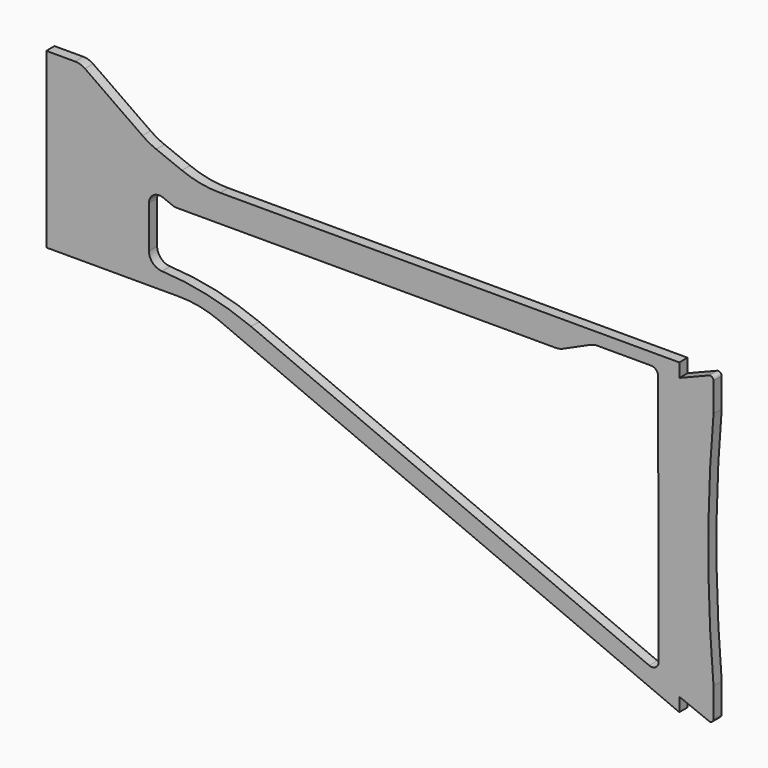
from build123d import *

# Parameters (mm, degrees)
F1_DEPTH = 3


with BuildPart() as f1:
    # F0 (on Front) → F1 (new body)
    with BuildSketch(Plane.XZ):
        with BuildLine():
            Line((8.423506, 0), (0, 0))
            Line((0, 0), (0, -50.61))
            Line((0, -50.61), (38.89988, -50.61))
            ThreePointArc((38.89988, -50.61), (44.877672, -51.211599), (50.615716, -52.992267))
            Line((50.615716, -52.992267), (185, -110))
            Line((185, -110), (185, -106))
            Line((185, -106), (193.628609, -109.451444))
            ThreePointArc((193.628609, -109.451444), (194.560629, -109.351034), (195, -108.522967))
            Line((195, -108.522967), (195, -100))
            ThreePointArc((195, -100), (193.47167, -65), (195, -30))
            Line((195, -30), (195, -21.477033))
            ThreePointArc((195, -21.477033), (194.560629, -20.648966), (193.628609, -20.548556))
            Line((193.628609, -20.548556), (185, -24))
            Line((185, -24), (185, -20))
            Line((185, -20), (50.773761, -20))
            ThreePointArc((50.773761, -20), (45.104049, -19.459368), (39.638686, -17.856958))
            Line((39.638686, -17.856958), (32.150787, -14.86387))
            ThreePointArc((32.150787, -14.86387), (30.063568, -13.886554), (28.102641, -12.675606))
            Line((28.102641, -12.675606), (11.291388, -0.90424))
            ThreePointArc((11.291388, -0.90424), (9.927035, -0.231415), (8.423506, 0))
        make_face()
        with BuildLine():
            ThreePointArc((59.853067, -51.47959), (47.07991, -47.471605), (33.810753, -45.697628))
            ThreePointArc((33.810753, -45.697628), (31.105437, -44.462815), (30, -41.702108))
            Line((30, -41.702108), (30, -29.429961))
            ThreePointArc((30, -29.429961), (31.317817, -26.945959), (34.113507, -26.644265))
            Line((34.113507, -26.644265), (36.969061, -27.785696))
            ThreePointArc((36.969061, -27.785696), (37.515597, -27.945937), (38.082568, -28))
            Line((38.082568, -28), (148.926827, -28))
            ThreePointArc((148.926827, -28), (149.976103, -27.888662), (150.97865, -27.559608))
            Line((150.97865, -27.559608), (159.02135, -23.940392))
            ThreePointArc((159.02135, -23.940392), (160.023897, -23.611338), (161.073173, -23.5))
            Line((161.073173, -23.5), (176.782812, -23.5))
            ThreePointArc((176.782812, -23.5), (178.1951, -24.083864), (178.782804, -25.494558))
            Line((178.782804, -25.494558), (178.982779, -98.989731))
            ThreePointArc((178.982779, -98.989731), (178.089112, -100.66132), (176.201731, -100.836355))
            Line((176.201731, -100.836355), (59.853067, -51.47959))
        make_face(mode=Mode.SUBTRACT)
    extrude(amount=F1_DEPTH)


solid = f1.part
